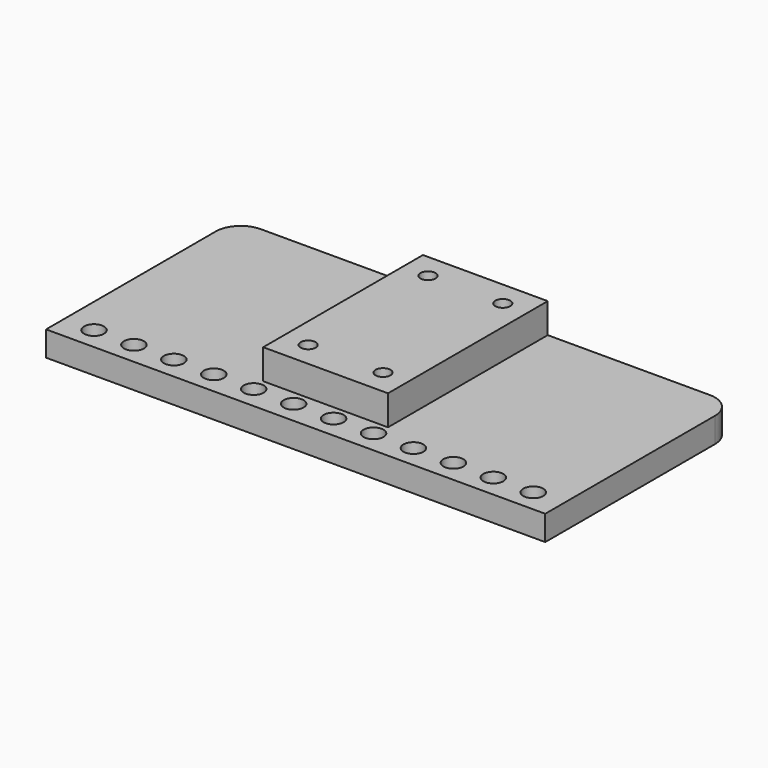
from build123d import *

# Parameters (mm, degrees)
F0_R     = 4
F0_W     = 50
F0_H     = 80
F0_R_2   = 3
F1_DEPTH = 10
F2_DEPTH = 12


with BuildPart() as f1:
    # F0 (on Top) → F1 (new body)
    with BuildSketch(Plane.XY):
        with BuildLine():
            Line((0, 85), (0, 0))
            Line((0, 0), (200, 0))
            Line((200, 0), (200, 85))
            ThreePointArc((200, 85), (197.071068, 92.071068), (190, 95))
            Line((190, 95), (125, 95))
            Line((125, 95), (125, 15))
            Line((125, 15), (75, 15))
            Line((75, 15), (75, 95))
            Line((75, 95), (10, 95))
            ThreePointArc((10, 95), (2.928932, 92.071068), (0, 85))
        make_face()
        with Locations((12, 9)):
            Circle(F0_R, mode=Mode.SUBTRACT)
        with Locations((28, 9)):
            Circle(F0_R, mode=Mode.SUBTRACT)
        with Locations((44, 9)):
            Circle(F0_R, mode=Mode.SUBTRACT)
        with Locations((60, 9)):
            Circle(F0_R, mode=Mode.SUBTRACT)
        with Locations((76, 9)):
            Circle(F0_R, mode=Mode.SUBTRACT)
        with Locations((92, 9)):
            Circle(F0_R, mode=Mode.SUBTRACT)
        with Locations((108, 9)):
            Circle(F0_R, mode=Mode.SUBTRACT)
        with Locations((124, 9)):
            Circle(F0_R, mode=Mode.SUBTRACT)
        with Locations((140, 9)):
            Circle(F0_R, mode=Mode.SUBTRACT)
        with Locations((156, 9)):
            Circle(F0_R, mode=Mode.SUBTRACT)
        with Locations((172, 9)):
            Circle(F0_R, mode=Mode.SUBTRACT)
        with Locations((188, 9)):
            Circle(F0_R, mode=Mode.SUBTRACT)
        with Locations((100, 55)):
            Rectangle(F0_W, F0_H)
        with Locations((85, 25)):
            Circle(F0_R_2, mode=Mode.SUBTRACT)
        with Locations((115, 25)):
            Circle(F0_R_2, mode=Mode.SUBTRACT)
        with Locations((85, 85)):
            Circle(F0_R_2, mode=Mode.SUBTRACT)
        with Locations((115, 85)):
            Circle(F0_R_2, mode=Mode.SUBTRACT)
    extrude(amount=-F1_DEPTH)

    # F0 (on Top) → F2 (join)
    with BuildSketch(Plane.XY):
        with Locations((100, 55)):
            Rectangle(F0_W, F0_H)
        with Locations((85, 25)):
            Circle(F0_R_2, mode=Mode.SUBTRACT)
        with Locations((115, 25)):
            Circle(F0_R_2, mode=Mode.SUBTRACT)
        with Locations((85, 85)):
            Circle(F0_R_2, mode=Mode.SUBTRACT)
        with Locations((115, 85)):
            Circle(F0_R_2, mode=Mode.SUBTRACT)
    extrude(amount=F2_DEPTH)


solid = f1.part
